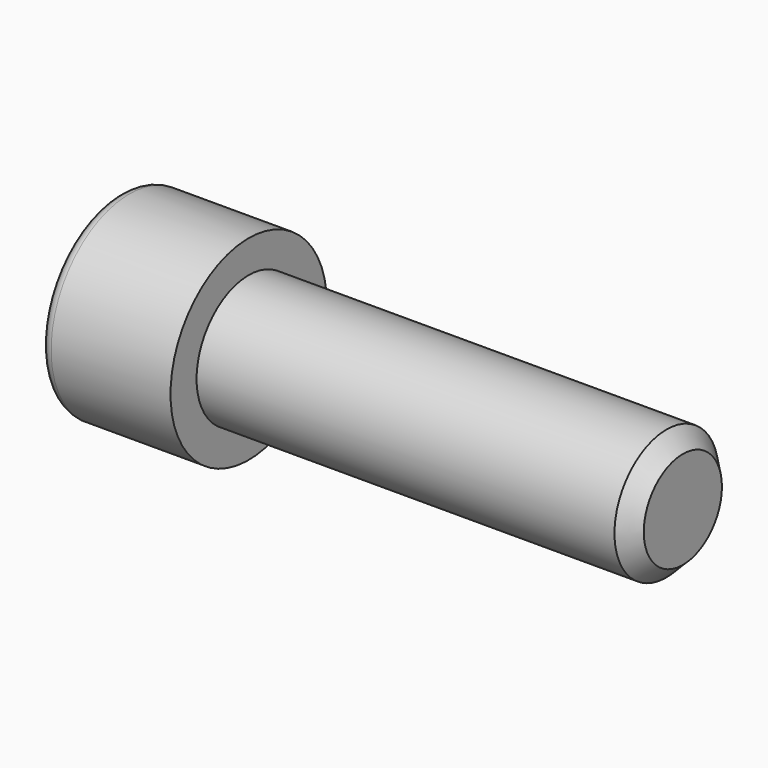
from build123d import *

# Parameters (mm, degrees)
F2_R     = 1
F3_SIZE  = 1.5
F5_DEPTH = 7


with BuildPart() as f1:
    # F0 (on Top) → F1 (revolve)
    with BuildSketch(Plane.XY):
        Polygon((-30.745121, 9), (-30.745121, 0), (21.254879, 0), (21.254879, 6), (-18.745121, 6), (-18.745121, 9), align=None)
    revolve(axis=Axis((0.541581, 0, 0), (1, 0, 0)))

    # F2
    f2_edges = [f1.edges().sort_by_distance(p)[0] for p in [
        (-30.745121, -9, 0),
    ]]
    fillet(f2_edges, radius=F2_R)

    # F3
    f3_edges = [f1.edges().sort_by_distance(p)[0] for p in [
        (21.254879, -6, 0),
    ]]
    chamfer(f3_edges, length=F3_SIZE)

    # F4 (on face) → F5 (cut)
    with BuildSketch(Plane(origin=(-30.745121, 0, 0), x_dir=(0, -1, 0), z_dir=(-1, 0, 0))):
        Polygon((5, -2.886751), (5, 0), (5, 2.886751), (0, 5.773503), (-5, 2.886751), (-5, 0), (-5, -2.886751), (0, -5.773503), align=None)
    extrude(amount=-F5_DEPTH, mode=Mode.SUBTRACT)

    # F6 (on Front) → F7 (revolve, cut)
    with BuildSketch(Plane.XZ):
        Polygon((-30.245121, 5.273503), (-30.745121, 5.773503), (-30.745121, 0), (-30.245121, 0), align=None)
    revolve(axis=Axis((0.541581, 0, 0), (1, 0, 0)), mode=Mode.SUBTRACT)


with BuildPart() as f8_1:
    # F8: copy of F1
    add(f1.part)


solid = f1.part
